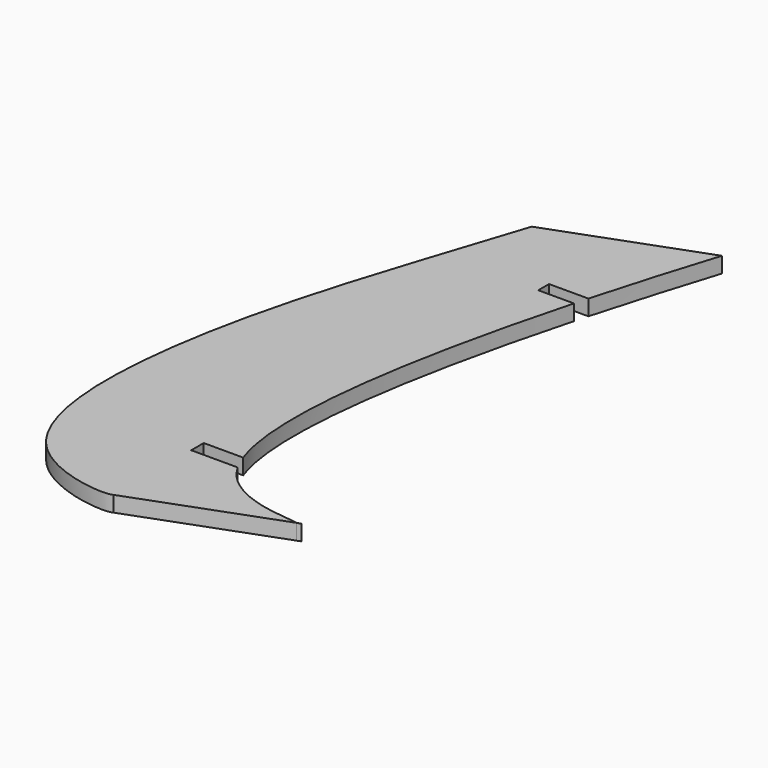
from build123d import *

# Parameters (mm, degrees)
F1_DEPTH = 3
F2_W     = 16
F2_H     = 2.5804279571
F3_DEPTH = 3
F4_W     = 16
F4_H     = 3
F5_DEPTH = 3


with BuildPart() as f1:
    # F0 (on Top) → F1 (new body)
    with BuildSketch(Plane.XY):
        with BuildLine():
            Line((-6.6545552854, -48.5257102785), (-7.3743865095, -48.7923928835))
            add(Edge.make_bspline(
                [(-7.3743865095, -48.7923928835), (-7.3463953032, -48.7904084122), (-7.1800733819, -48.761723798), (-6.8120666556, -48.6123548112), (-6.6545552854, -48.5257102785)],
                knots=[0.9373684974, 0.9373684974, 0.9373684974, 0.9373684974, 0.945342946, 0.9777580666, 0.9777580666, 0.9777580666, 0.9777580666], degree=3))
        make_face()
    extrude(amount=F1_DEPTH)


with BuildPart() as f1b:
    # F0 (on Top) → F1, piece 2 (new body)
    with BuildSketch(Plane.XY):
        with BuildLine():
            add(Edge.make_bspline(
                [(-11.734207112, 58.6074007301), (-21.772819408, 27.0492546374), (-42.7474558666, -49.3541198531), (-7.7835553334, -48.2996819233), (-7.4910280261, -48.8006623284), (-7.3743865095, -48.7923928835)],
                knots=[0, 0, 0, 0, 0.6380265616, 0.9041383546, 0.9373684974, 0.9373684974, 0.9373684974, 0.9373684974], degree=3))
            Line((-11.734207112, 58.6074007301), (-39.8722687706, 48.2030994032))
            add(Edge.make_bspline(
                [(-39.8722687706, 48.2030994032), (-45.9248216711, 29.1758331799), (-58.9903870118, -6.0049413166), (-60.2537886956, -55.7164680185), (-36.7203376896, -59.6866463577), (-34.4327324858, -58.8729046374), (-34.4770574691, -58.8333728399)],
                knots=[0, 0, 0, 0, 0.3846835999, 0.7083151359, 0.9161591015, 0.9741914032, 0.9741914032, 0.9741914032, 0.9741914032], degree=3))
            Line((-34.4770574691, -58.8333728399), (-7.3743865095, -48.7923928835))
        make_face()
    extrude(amount=F1_DEPTH)

    # F2 (on Top) → F3 (cut)
    with BuildSketch(Plane.XY):
        with Locations((-18.2248428464, 33.9970178902)):
            Rectangle(F2_W, F2_H)
    extrude(amount=F3_DEPTH, mode=Mode.SUBTRACT)

    # F4 (on Top) → F5 (cut)
    with BuildSketch(Plane.XY):
        with Locations((-26.392986998, -38.759931922)):
            Rectangle(F4_W, F4_H)
    extrude(amount=F5_DEPTH, mode=Mode.SUBTRACT)


solid = Compound([f1.part, f1b.part])
